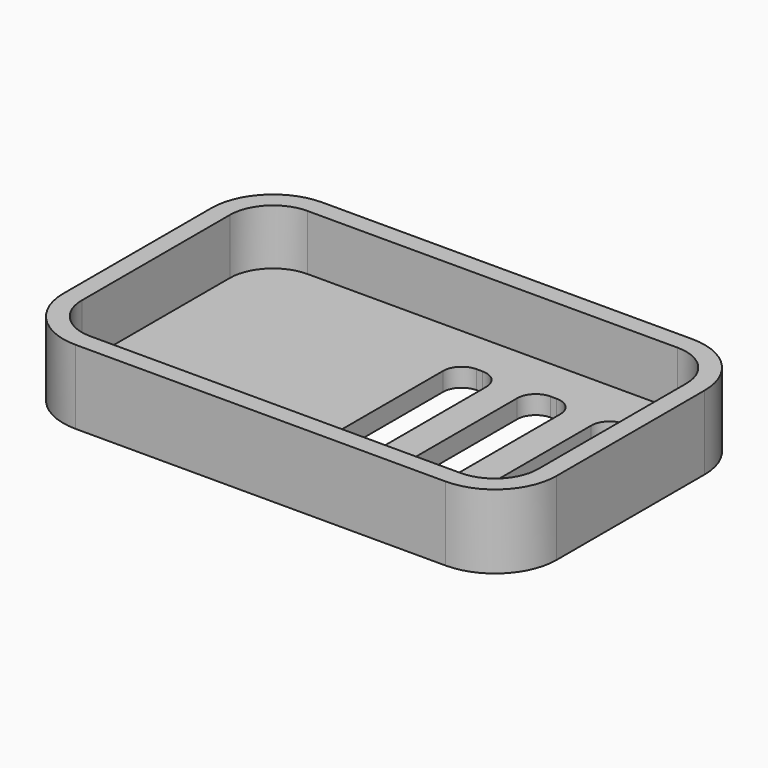
from build123d import *

# Parameters (mm, degrees)
F1_DEPTH = 3
F2_DEPTH = 12


with BuildPart() as f1:
    # F0 (on Top) → F1 (new body)
    with BuildSketch(Plane.XY):
        with BuildLine():
            Line((37, -15), (37, 15))
            ThreePointArc((37, 15), (34.949747, 19.949747), (30, 22))
            Line((30, 22), (-30, 22))
            ThreePointArc((-30, 22), (-34.949747, 19.949747), (-37, 15))
            Line((-37, 15), (-37, -15))
            ThreePointArc((-37, -15), (-34.949747, -19.949747), (-30, -22))
            Line((-30, -22), (30, -22))
            ThreePointArc((30, -22), (34.949747, -19.949747), (37, -15))
        make_face()
        with BuildLine():
            ThreePointArc((0, 12), (0.87868, 14.12132), (3, 15))
            Line((3, 15), (4, 15))
            ThreePointArc((4, 15), (6.12132, 14.12132), (7, 12))
            Line((7, 12), (7, -12))
            ThreePointArc((7, -12), (6.12132, -14.12132), (4, -15))
            Line((4, -15), (3, -15))
            ThreePointArc((3, -15), (0.87868, -14.12132), (0, -12))
            Line((0, -12), (0, 12))
        make_face(mode=Mode.SUBTRACT)
        with BuildLine():
            ThreePointArc((16, 15), (18.12132, 14.12132), (19, 12))
            Line((19, 12), (19, -12))
            ThreePointArc((19, -12), (18.12132, -14.12132), (16, -15))
            Line((16, -15), (15, -15))
            ThreePointArc((15, -15), (12.87868, -14.12132), (12, -12))
            Line((12, -12), (12, 12))
            ThreePointArc((12, 12), (12.87868, 14.12132), (15, 15))
            Line((15, 15), (16, 15))
        make_face(mode=Mode.SUBTRACT)
        with BuildLine():
            ThreePointArc((28, 15), (30.12132, 14.12132), (31, 12))
            Line((31, 12), (31, -12))
            ThreePointArc((31, -12), (30.12132, -14.12132), (28, -15))
            Line((28, -15), (27, -15))
            ThreePointArc((27, -15), (24.87868, -14.12132), (24, -12))
            Line((24, -12), (24, 12))
            ThreePointArc((24, 12), (24.87868, 14.12132), (27, 15))
            Line((27, 15), (28, 15))
        make_face(mode=Mode.SUBTRACT)
    extrude(amount=F1_DEPTH)

    # F0 (on Top) → F2 (join)
    with BuildSketch(Plane.XY):
        with BuildLine():
            ThreePointArc((40, 15), (37.071068, 22.071068), (30, 25))
            Line((30, 25), (-30, 25))
            ThreePointArc((-30, 25), (-37.071068, 22.071068), (-40, 15))
            Line((-40, 15), (-40, -15))
            ThreePointArc((-40, -15), (-37.071068, -22.071068), (-30, -25))
            Line((-30, -25), (30, -25))
            ThreePointArc((30, -25), (37.071068, -22.071068), (40, -15))
            Line((40, -15), (40, 15))
        make_face()
        with BuildLine():
            ThreePointArc((30, 22), (34.949747, 19.949747), (37, 15))
            Line((37, 15), (37, -15))
            ThreePointArc((37, -15), (34.949747, -19.949747), (30, -22))
            Line((30, -22), (-30, -22))
            ThreePointArc((-30, -22), (-34.949747, -19.949747), (-37, -15))
            Line((-37, -15), (-37, 15))
            ThreePointArc((-37, 15), (-34.949747, 19.949747), (-30, 22))
            Line((-30, 22), (30, 22))
        make_face(mode=Mode.SUBTRACT)
    extrude(amount=F2_DEPTH)


solid = f1.part
